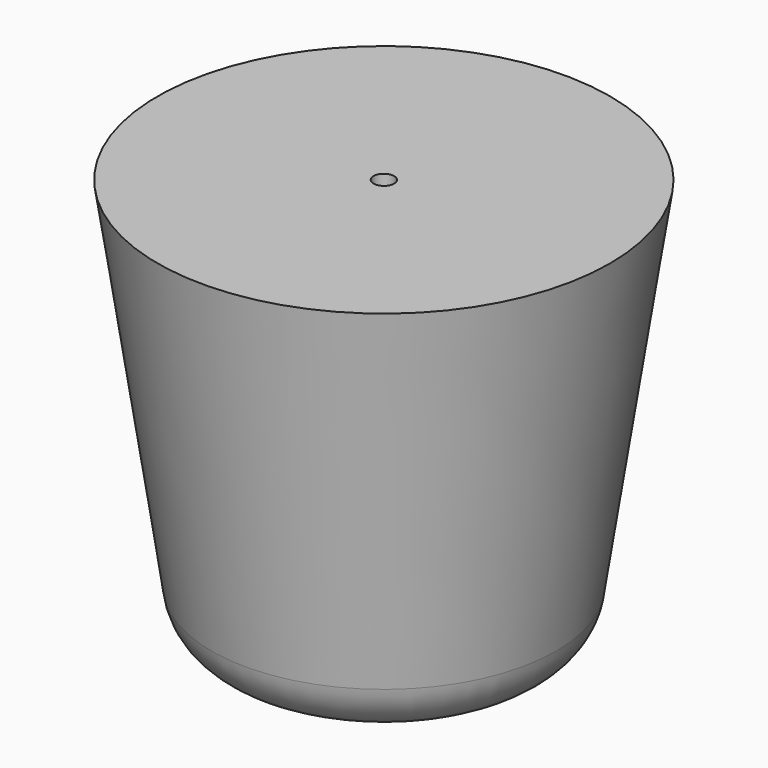
from build123d import *

# Parameters (mm, degrees)
F0_R     = 11
F2_R     = 8
F4_R     = 3
F5_R     = 0.5
F6_DEPTH = 20


with BuildPart() as f3:
    # F0 (on Top) → F3 section 0
    with BuildSketch(Plane.XY):
        Circle(F0_R)
    # F2 (on offset) → F3 section 1
    with BuildSketch(Plane.XY.offset(-20)):
        Circle(F2_R)
    loft()

    # F4
    f4_edges = [f3.edges().sort_by_distance(p)[0] for p in [
        (-8, 0, -20),
    ]]
    fillet(f4_edges, radius=F4_R)

    # F5 (on face) → F6 (cut)
    with BuildSketch(Plane(origin=(0, 0, -20), x_dir=(1, 0, 0), z_dir=(0, 0, -1))):
        Circle(F5_R)
    extrude(amount=-F6_DEPTH, mode=Mode.SUBTRACT)


solid = f3.part
